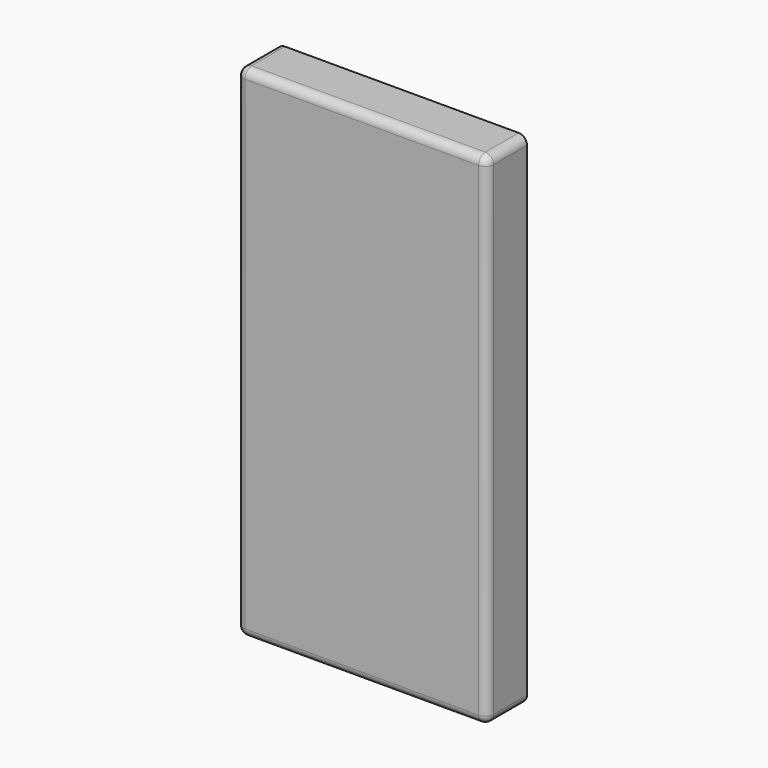
from build123d import *

# Parameters (mm, degrees)
F0_W     = 76.2
F0_H     = 152.4
F1_DEPTH = 15.24
F2_W     = 68.948708
F2_H     = 143.428072
F3_DEPTH = 5.08
F4_R     = 2.54


with BuildPart() as f1:
    # F0 (on Front) → F1 (new body)
    with BuildSketch(Plane.XZ):
        Rectangle(F0_W, F0_H)
    extrude(amount=F1_DEPTH)

    # F2 (on face) → F3 (cut)
    with BuildSketch(Plane(origin=(0, 0, 0), x_dir=(-1, 0, 0), z_dir=(0, 1, 0))):
        Rectangle(F2_W, F2_H)
    extrude(amount=-F3_DEPTH, mode=Mode.SUBTRACT)

    # F4
    f4_edges = [f1.edges().sort_by_distance(p)[0] for p in [
        (-38.1, -7.62, -76.2),
        (38.1, -7.62, -76.2),
        (38.1, -7.62, 76.2),
        (-38.1, -7.62, 76.2),
        (-38.1, -15.24, 0),
        (38.1, -15.24, 0),
        (0, -15.24, 76.2),
        (0, -15.24, -76.2),
    ]]
    fillet(f4_edges, radius=F4_R)


solid = f1.part
